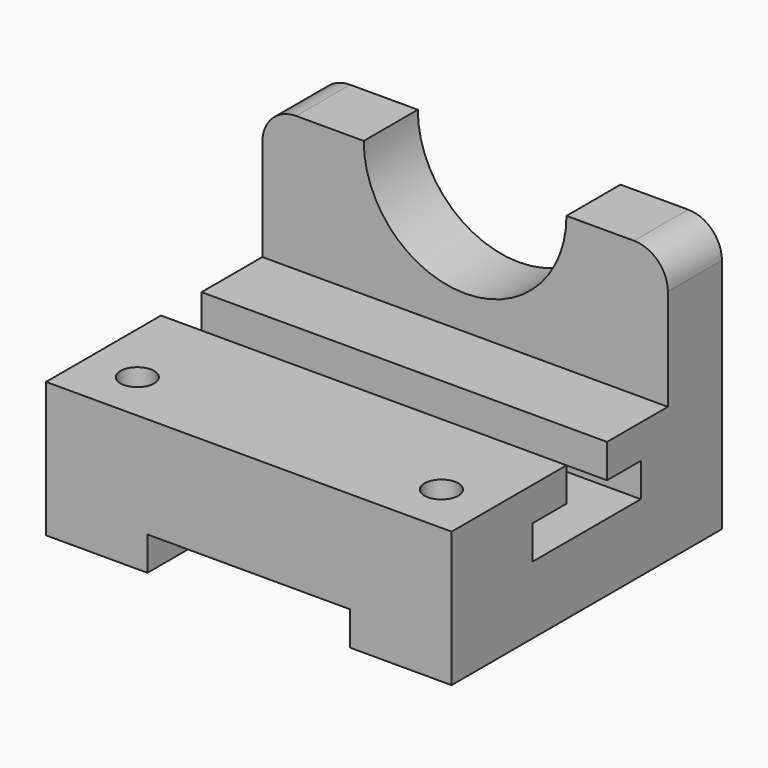
from build123d import *

# Parameters (mm, degrees)
F0_W      = 25.4
F0_H      = 50.8
F1_DEPTH  = 152.4
F2_R      = 12.7
F4_DEPTH  = 152.401
F5_W      = 76.2
F5_H      = 12.7
F6_DEPTH  = 127.001
F7_R      = 6.35
F8_DEPTH  = 50.801
F9_R      = 38.1
F10_DEPTH = 25.401


with BuildPart() as f1:
    # F0 (on Right) → F1 (new body)
    with BuildSketch(Plane.YZ):
        Polygon((-111.00142, 50.8), (-111.00142, 0), (15.99858, 0), (15.99858, 50.8), (-9.40142, 50.8), align=None)
        with Locations((3.29858, 76.2)):
            Rectangle(F0_W, F0_H)
    extrude(amount=F1_DEPTH)

    # F2
    f2_edges = [f1.edges().sort_by_distance(p)[0] for p in [
        (152.4, 3.29858, 101.6),
        (0, 3.29858, 101.6),
    ]]
    fillet(f2_edges, radius=F2_R)

    # F3 (on face) → F4 (cut, through all)
    with BuildSketch(Plane.YZ.offset(152.4)):
        Polygon((-37.97642, 50.8), (-57.02642, 50.8), (-57.02642, 38.1), (-72.90142, 38.1), (-72.90142, 25.4), (-22.10142, 25.4), (-22.10142, 38.1), (-37.97642, 38.1), align=None)
    extrude(amount=-F4_DEPTH, mode=Mode.SUBTRACT)

    # F5 (on face) → F6 (cut, through all)
    with BuildSketch(Plane.XZ.offset(111.00142)):
        with Locations((76.2, 6.35)):
            Rectangle(F5_W, F5_H)
    extrude(amount=-F6_DEPTH, mode=Mode.SUBTRACT)

    # F7 (on face) → F8 (cut, through all)
    with BuildSketch(Plane.XY.offset(50.8)):
        with Locations((19.05, -91.95142)):
            Circle(F7_R)
        with Locations((133.35, -91.95142)):
            Circle(F7_R)
    extrude(amount=-F8_DEPTH, mode=Mode.SUBTRACT)

    # F9 (on face) → F10 (cut, through all)
    with BuildSketch(Plane.XZ.offset(9.40142)):
        with Locations((76.2, 101.6)):
            Circle(F9_R)
    extrude(amount=-F10_DEPTH, mode=Mode.SUBTRACT)


solid = f1.part
